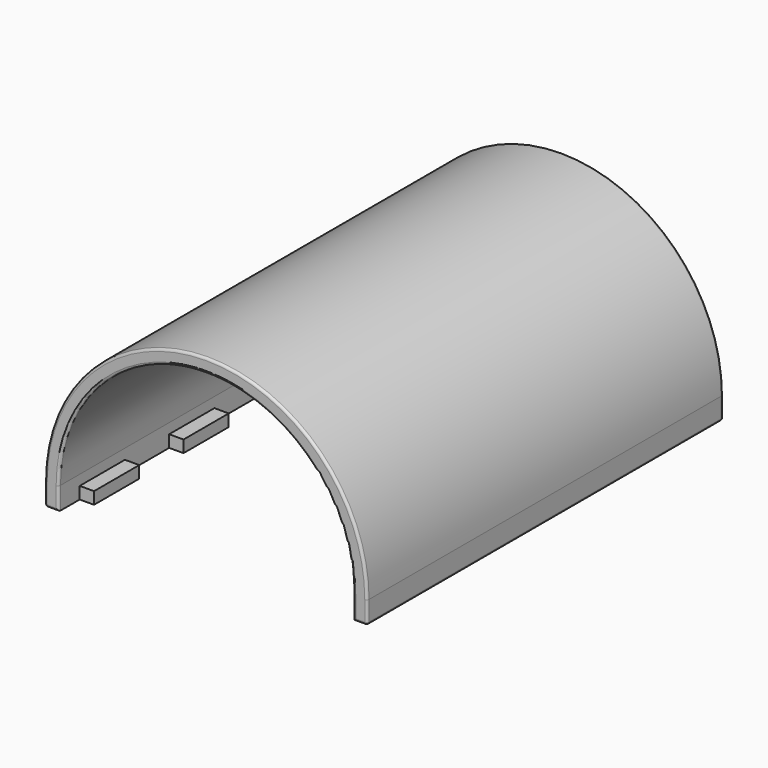
from build123d import *

# Parameters (mm, degrees)
F1_DEPTH = 93.98
F3_START = -2.159
F3_DEPTH = 2.54
F4_R     = 0.508


with BuildPart() as f1:
    # F0 (on Front) → F1 (new body)
    with BuildSketch(Plane.XZ):
        with BuildLine():
            ThreePointArc((-31.1404, 0), (0, 31.1404), (31.1404, 0))
            Line((31.1404, 0), (31.1404, -2.159))
            Line((31.1404, -2.159), (34.036, -2.159))
            Line((34.036, -2.159), (34.036, 0))
            ThreePointArc((34.036, 0), (0, 34.036), (-34.036, 0))
            Line((-34.036, 0), (-34.036, -2.159))
            Line((-34.036, -2.159), (-31.1404, -2.159))
            Line((-31.1404, -2.159), (-31.1404, 0))
        make_face()
    extrude(amount=F1_DEPTH)

    # F2 (on Top) → F3 (join)
    with BuildSketch(Plane.XY.offset(F3_START)):
        Polygon((-31.1404, -29.21), (-31.1404, -17.526), (-28.1178, -17.526), (-28.1178, -5.588), (-31.1404, -5.588), (-31.1404, 0), (-34.036, 0), (-34.036, -93.98), (-31.1404, -93.98), (-31.1404, -88.392), (-28.1178, -88.392), (-28.1178, -76.454), (-31.1404, -76.454), (-31.1404, -64.77), (-28.1178, -64.77), (-28.1178, -52.832), (-31.1404, -52.832), (-31.1404, -41.148), (-28.1178, -41.148), (-28.1178, -29.21), align=None)
        Polygon((28.1178, -17.526), (31.1404, -17.526), (31.1404, -29.21), (28.1178, -29.21), (28.1178, -41.148), (31.1404, -41.148), (31.1404, -52.832), (28.1178, -52.832), (28.1178, -64.77), (31.1404, -64.77), (31.1404, -76.454), (28.1178, -76.454), (28.1178, -88.392), (31.1404, -88.392), (31.1404, -93.98), (34.036, -93.98), (34.036, 0), (31.1404, 0), (31.1404, -5.588), (28.1178, -5.588), align=None)
    extrude(amount=-F3_DEPTH)

    # F4
    f4_edges = [f1.edges().sort_by_distance(p)[0] for p in [
        (0, -93.98, 31.1404),
        (31.1404, -93.98, -2.3495),
        (32.5882, -93.98, -4.699),
        (34.036, -93.98, -2.3495),
        (0, -93.98, 34.036),
        (-34.036, -93.98, -2.3495),
        (-32.5882, -93.98, -4.699),
        (-31.1404, -93.98, -2.3495),
        (0, 0, 31.1404),
        (31.1404, 0, -2.3495),
        (32.5882, 0, -4.699),
        (34.036, 0, -2.3495),
        (0, 0, 34.036),
        (-34.036, 0, -2.3495),
        (-32.5882, 0, -4.699),
        (-31.1404, 0, -2.3495),
        (34.036, -46.99, -4.699),
        (-34.036, -46.99, -4.699),
    ]]
    fillet(f4_edges, radius=F4_R)


solid = f1.part
